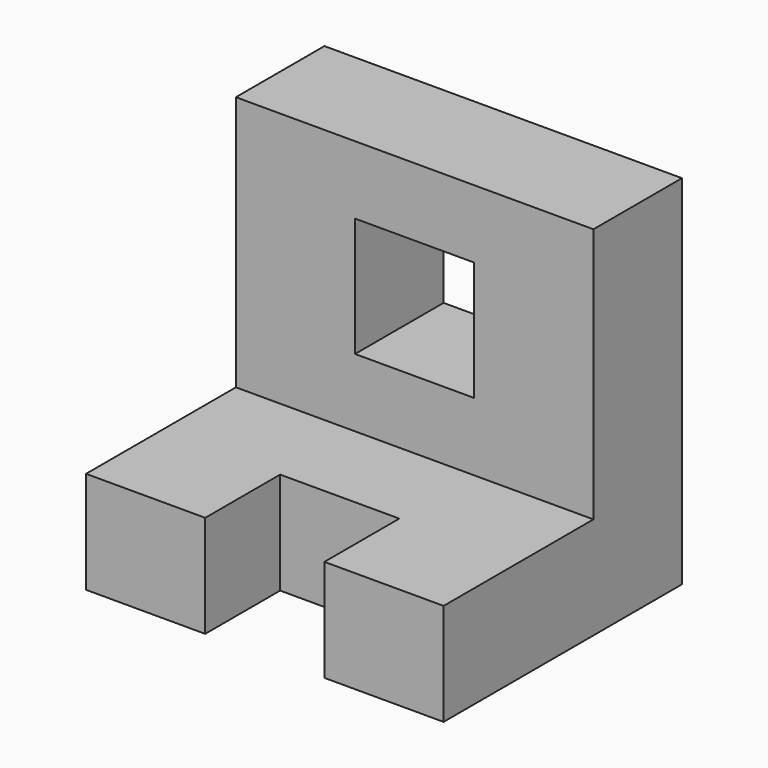
from build123d import *

# Parameters (mm, degrees)
F0_W     = 42
F0_H     = 35
F1_DEPTH = 42
F2_W     = 42
F2_H     = 22
F3_DEPTH = 30
F4_W     = 14
F4_H     = 11
F5_DEPTH = 12.001
F6_W     = 14
F6_H     = 14
F7_DEPTH = 13.001


with BuildPart() as f1:
    # F0 (on Top) → F1 (new body)
    with BuildSketch(Plane.XY):
        with Locations((21, 17.5)):
            Rectangle(F0_W, F0_H)
    extrude(amount=F1_DEPTH)

    # F2 (on face) → F3 (cut)
    with BuildSketch(Plane.XY.offset(42)):
        with Locations((21, 11)):
            Rectangle(F2_W, F2_H)
    extrude(amount=-F3_DEPTH, mode=Mode.SUBTRACT)

    # F4 (on face) → F5 (cut, through all)
    with BuildSketch(Plane.XY.offset(12)):
        with Locations((21, 5.5)):
            Rectangle(F4_W, F4_H)
    extrude(amount=-F5_DEPTH, mode=Mode.SUBTRACT)

    # F6 (on face) → F7 (cut, through all)
    with BuildSketch(Plane.XZ.offset(-22)):
        with Locations((21, 27)):
            Rectangle(F6_W, F6_H)
    extrude(amount=-F7_DEPTH, mode=Mode.SUBTRACT)


solid = f1.part
